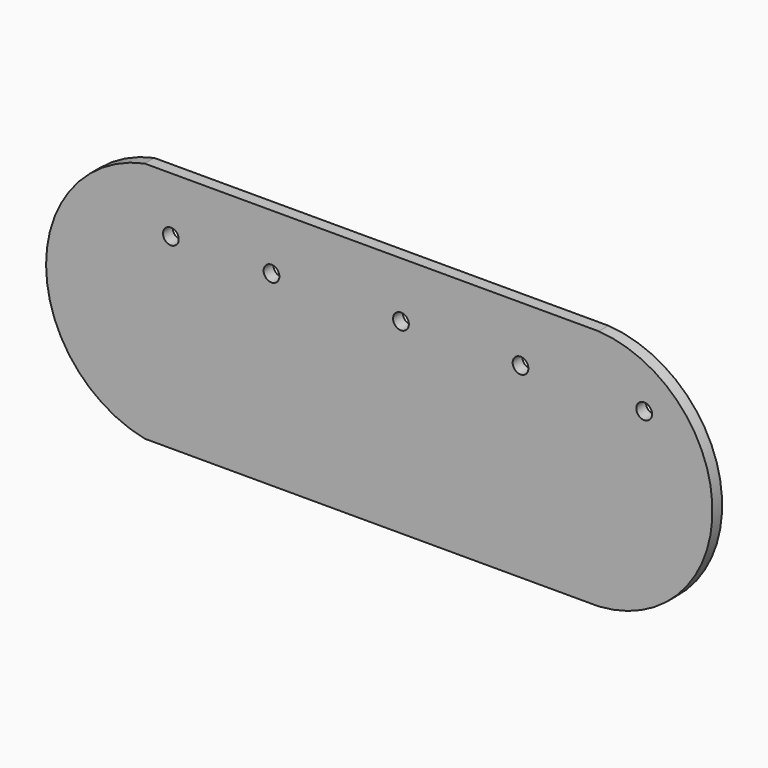
from build123d import *

# Parameters (mm, degrees)
F1_DEPTH = 2.54
F2_R     = 1.651
F3_DEPTH = 25.4


with BuildPart() as f1:
    # F0 (on Front) → F1 (new body)
    with BuildSketch(Plane.XZ):
        with BuildLine():
            Line((-19.05, 0), (0, 0))
            Line((0, 0), (76.2, 0))
            ThreePointArc((76.2, 0), (100.04356, 25.4), (76.2, 50.8))
            Line((76.2, 50.8), (0, 50.8))
            Line((0, 50.8), (-19.05, 50.8))
            ThreePointArc((-19.05, 50.8), (-39.70724, 25.4), (-19.05, 0))
        make_face()
    extrude(amount=F1_DEPTH)

    # F2 (on face) → F3 (cut)
    with BuildSketch(Plane.XZ.offset(2.54)):
        with Locations((59.7933, 39.132159)):
            Circle(F2_R)
        with Locations((85.7267, 39.132159)):
            Circle(F2_R)
        with Locations((34.717675, 39.132159)):
            Circle(F2_R)
        with Locations((7.566978, 39.132159)):
            Circle(F2_R)
        with Locations((-13.534474, 39.132159)):
            Circle(F2_R)
    extrude(amount=-F3_DEPTH, mode=Mode.SUBTRACT)


solid = f1.part
